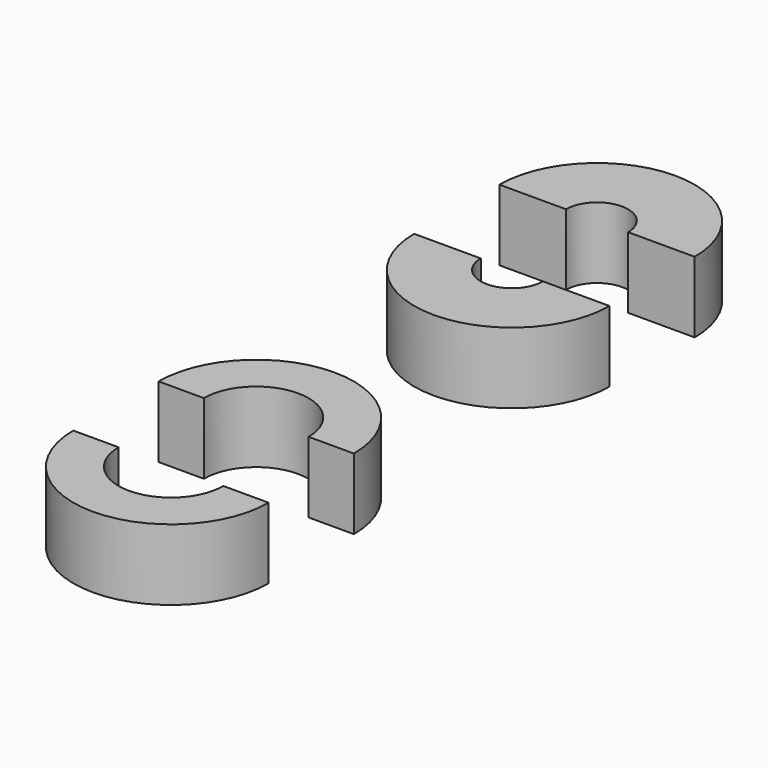
from build123d import *

# Parameters (mm, degrees)
F1_DEPTH = 4


with BuildPart() as f1:
    # F0 (on Top) → F1 (new body)
    with BuildSketch(Plane.XY):
        with BuildLine():
            Line((1.75, 15), (5.5, 15))
            ThreePointArc((5.5, 15), (0, 20.5), (-5.5, 15))
            Line((-5.5, 15), (-1.75, 15))
            ThreePointArc((-1.75, 15), (0, 16.75), (1.75, 15))
        make_face()
        with BuildLine():
            Line((-2.95, -15), (-5.5, -15))
            ThreePointArc((-5.5, -15), (0, -20.5), (5.5, -15))
            Line((5.5, -15), (2.95, -15))
            ThreePointArc((2.95, -15), (0, -17.95), (-2.95, -15))
        make_face()
        with BuildLine():
            Line((5.5, 9), (1.75, 9))
            ThreePointArc((1.75, 9), (0, 7.25), (-1.75, 9))
            Line((-1.75, 9), (-5.5, 9))
            ThreePointArc((-5.5, 9), (0, 3.5), (5.5, 9))
        make_face()
        with BuildLine():
            ThreePointArc((-2.95, -9), (0, -6.05), (2.95, -9))
            Line((2.95, -9), (5.5, -9))
            ThreePointArc((5.5, -9), (0, -3.5), (-5.5, -9))
            Line((-5.5, -9), (-2.95, -9))
        make_face()
    extrude(amount=F1_DEPTH)


solid = f1.part
